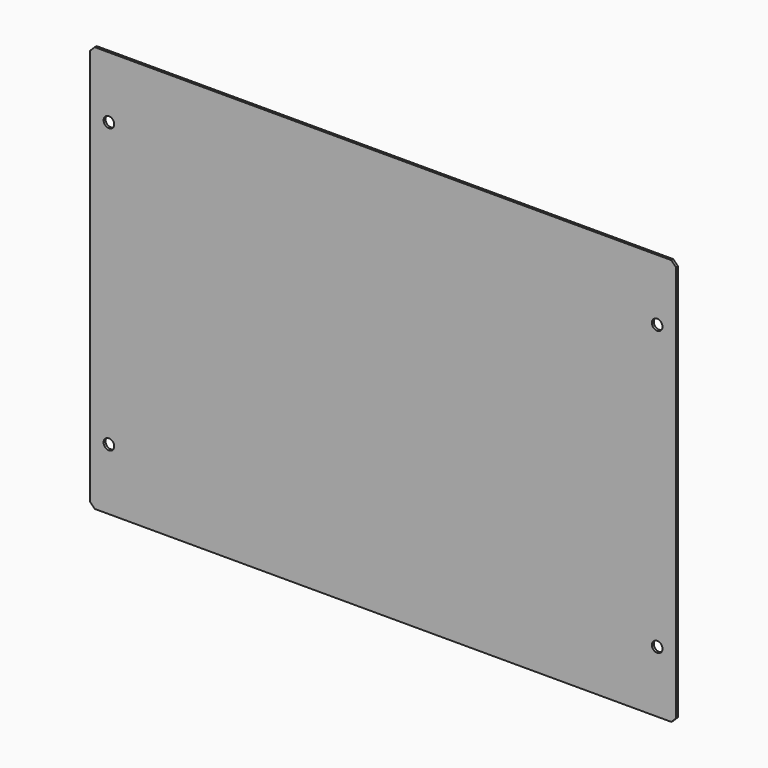
from build123d import *

# Parameters (mm, degrees)
F0_W     = 393.7
F0_H     = 273.05
F1_DEPTH = 1.6002
F2_SIZE  = 3.175
F4_D     = 7.1374


with BuildPart() as f1:
    # F0 (on Front) → F1 (new body)
    with BuildSketch(Plane.XZ):
        Rectangle(F0_W, F0_H)
    extrude(amount=F1_DEPTH)

    # F2
    f2_edges = [f1.edges().sort_by_distance(p)[0] for p in [
        (-196.85, -0.8001, 136.525),
        (-196.85, -0.8001, -136.525),
        (196.85, -0.8001, -136.525),
        (196.85, -0.8001, 136.525),
    ]]
    chamfer(f2_edges, length=F2_SIZE)

    # F4 (through all)
    with Locations(Plane.XZ.offset(1.6002)):
        with Locations((-184.15, 95.25), (184.15, 95.25), (184.15, -95.25), (-184.15, -95.25)):
            Hole(F4_D / 2)


solid = f1.part
